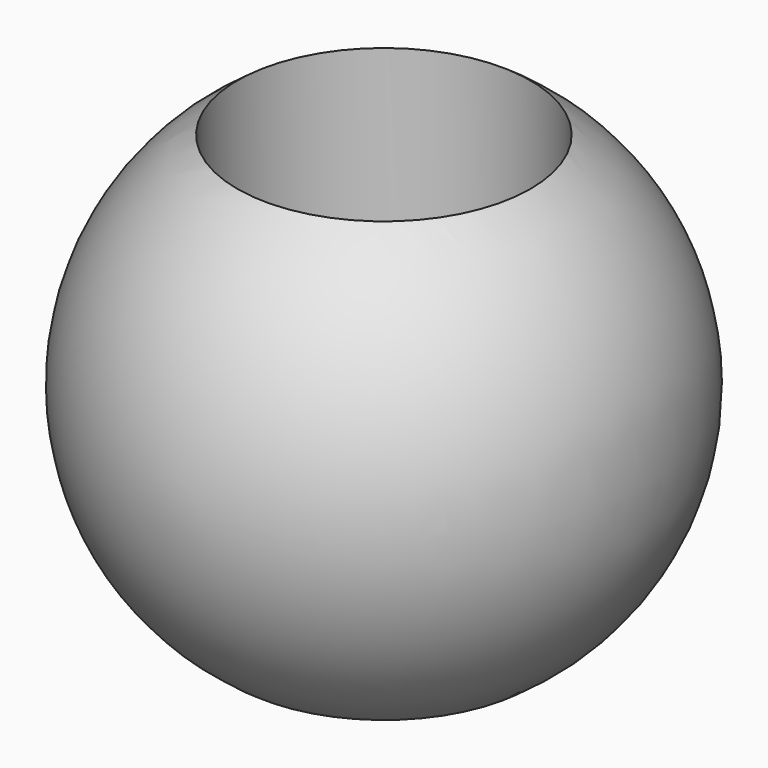
from build123d import *

# Parameters (mm, degrees)
F2_R      = 25
F3_DEPTH  = 45.001
F3_FACE_R = 25
F4_DEPTH  = 45.001


with BuildPart() as f1:
    # F0 (on Top) → F1 (revolve)
    with BuildSketch(Plane.XY):
        with BuildLine():
            Line((0, 0), (0, -45))
            ThreePointArc((0, -45), (45, 0), (0, 45))
            Line((0, 45), (0, 0))
        make_face()
    revolve(axis=Axis((0, 29.846651, 0), (0, 1, 0)))

    # F2 (on Top) → F3 (cut, through all)
    with BuildSketch(Plane.XY):
        Circle(F2_R)
    extrude(amount=-F3_DEPTH, mode=Mode.SUBTRACT)

    # F3_face (on face) → F4 (cut, through all)
    with BuildSketch(Plane(origin=(0, 0, 0), x_dir=(1, 0, 0), z_dir=(0, 0, -1))):
        Circle(F3_FACE_R)
    extrude(amount=-F4_DEPTH, mode=Mode.SUBTRACT)


solid = f1.part
